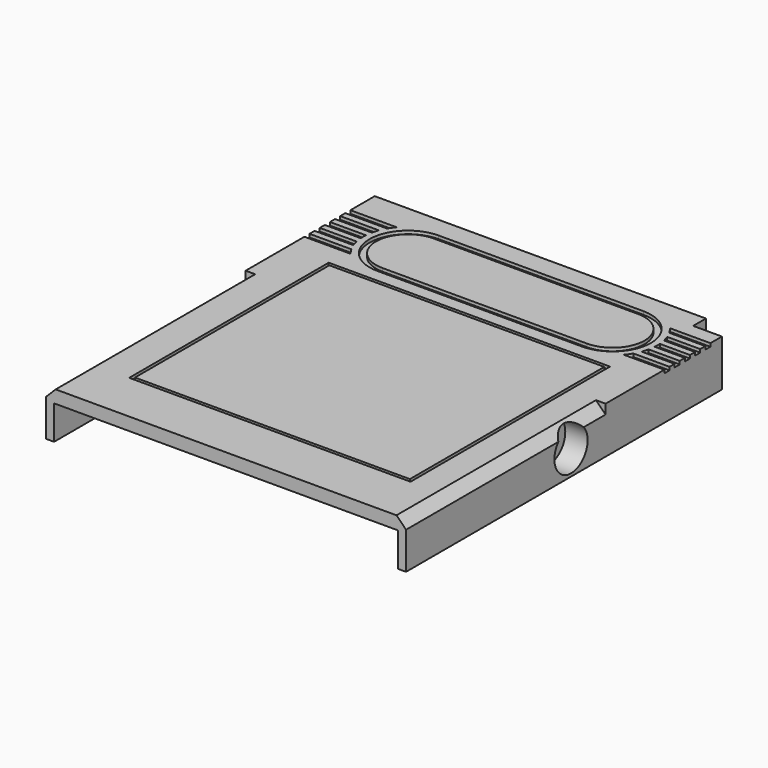
from build123d import *

# Parameters (mm, degrees)
CYLINDER_R        = 3.25
CYLINDER_DEPTH    = 3.5
BOX017_W          = 43
BOX017_H          = 38
BOX017_DEPTH      = 0.5
BOX057_W          = 4
BOX057_H          = 8
BOX057_DEPTH      = 5.3
BOX001_W          = 4.5
BOX001_H          = 2.5
BOX001_DEPTH      = 5.3
BOX003_W          = 5.5
BOX003_H          = 3.5
BOX003_DEPTH      = 5.3
BOX002_W          = 53.8
BOX002_H          = 62.8
BOX002_DEPTH      = 5.3
BOX_W             = 56.3
BOX_H             = 64.25
BOX_DEPTH         = 5.3
BOX056_W          = 13.5
BOX056_H          = 1
BOX056_DEPTH      = 5
BOX041_W          = 44
BOX041_H          = 39
BOX041_DEPTH      = 0.5
BOX008_W          = 56.3
BOX008_H          = 39
BOX008_DEPTH      = 2
CHAMFER_SIZE      = 1.5
CYLINDER011_R     = 5
CYLINDER011_DEPTH = 0.5
BOX055_W          = 32
BOX055_H          = 10
BOX055_DEPTH      = 0.5
CYLINDER010_R     = 5
CYLINDER010_DEPTH = 0.5
BOX044_W          = 32
BOX044_H          = 12
BOX044_DEPTH      = 1
CYLINDER007_R     = 6
CYLINDER007_DEPTH = 1
CYLINDER006_R     = 6
CYLINDER006_DEPTH = 1
CYLINDER008_R     = 7
CYLINDER008_DEPTH = 1
BOX047_W          = 10
BOX047_H          = 1
BOX047_DEPTH      = 1
BOX049_W          = 10
BOX049_H          = 1
BOX049_DEPTH      = 1
BOX048_W          = 10
BOX048_H          = 1
BOX048_DEPTH      = 1
BOX046_W          = 10
BOX046_H          = 1
BOX046_DEPTH      = 1
BOX045_W          = 10
BOX045_H          = 1
BOX045_DEPTH      = 1
CYLINDER009_R     = 7
CYLINDER009_DEPTH = 1
BOX051_W          = 10
BOX051_H          = 1
BOX051_DEPTH      = 1
BOX054_W          = 10
BOX054_H          = 1
BOX054_DEPTH      = 1
BOX053_W          = 10
BOX053_H          = 1
BOX053_DEPTH      = 1
BOX052_W          = 10
BOX052_H          = 1
BOX052_DEPTH      = 1
BOX050_W          = 10
BOX050_H          = 1
BOX050_DEPTH      = 1
BOX010_W          = 10
BOX010_H          = 10
BOX010_DEPTH      = 10
BOX007_W          = 56.3
BOX007_H          = 25.25
BOX007_DEPTH      = 2


with BuildPart() as cylinder_magnet:
    # Cylinder → Cylinder (new body)
    with BuildSketch(Plane(origin=(52.8, 32.25, 3.7), x_dir=(0, 0, -1), z_dir=(1, 0, 0))):
        Circle(CYLINDER_R)
    extrude(amount=CYLINDER_DEPTH)


with BuildPart() as obj1:
    # Box017 → Box017 (new body)
    with BuildSketch(Plane(origin=(7.1, 8.5, 6.8), x_dir=(1, 0, 0), z_dir=(0, 0, 1))):
        with Locations((21.5, 19)):
            Rectangle(BOX017_W, BOX017_H)
    extrude(amount=BOX017_DEPTH)


with BuildPart() as cube_magnet_black:
    # Box057 → Box057 (new body)
    with BuildSketch(Plane(origin=(51.3, 28.25, 0), x_dir=(1, 0, 0), z_dir=(0, 0, 1))):
        with Locations((2, 4)):
            Rectangle(BOX057_W, BOX057_H)
    extrude(amount=BOX057_DEPTH)


with BuildPart() as cube_corner_inner:
    # Box001 → Box001 (new body)
    with BuildSketch(Plane(origin=(51.8, 61.75, 0), x_dir=(1, 0, 0), z_dir=(0, 0, 1))):
        with Locations((2.25, 1.25)):
            Rectangle(BOX001_W, BOX001_H)
    extrude(amount=BOX001_DEPTH)


with BuildPart() as cube_corner_outer:
    # Box003 → Box003 (new body)
    with BuildSketch(Plane(origin=(50.8, 60.75, 0), x_dir=(1, 0, 0), z_dir=(0, 0, 1))):
        with Locations((2.75, 1.75)):
            Rectangle(BOX003_W, BOX003_H)
    extrude(amount=BOX003_DEPTH)


with BuildPart() as cube_inner_base:
    # Box002 → Box002 (new body)
    with BuildSketch(Plane(origin=(1.25, 0, 0), x_dir=(1, 0, 0), z_dir=(0, 0, 1))):
        with Locations((26.9, 31.4)):
            Rectangle(BOX002_W, BOX002_H)
    extrude(amount=BOX002_DEPTH)


with BuildPart() as cut024:
    # Box → Box (new body)
    with BuildSketch(Plane.XY):
        with Locations((28.15, 32.125)):
            Rectangle(BOX_W, BOX_H)
    extrude(amount=BOX_DEPTH)

    # Cut: cut Cube(inner_base)
    add(cube_inner_base.part, mode=Mode.SUBTRACT)

    # Fusion: union Cube(corner_outer)
    add(cube_corner_outer.part)

    # Cut024: cut Cube(corner_inner)
    add(cube_corner_inner.part, mode=Mode.SUBTRACT)


with BuildPart() as cube_sd_card_cover:
    # Box056 → Box056 (new body)
    with BuildSketch(Plane(origin=(27.1, 63.25, -5), x_dir=(1, 0, 0), z_dir=(0, 0, 1))):
        with Locations((6.75, 0.5)):
            Rectangle(BOX056_W, BOX056_H)
    extrude(amount=BOX056_DEPTH)


with BuildPart() as obj2:
    # Box041 → Box041 (new body)
    with BuildSketch(Plane(origin=(6.6, 8, 6.8), x_dir=(1, 0, 0), z_dir=(0, 0, 1))):
        with Locations((22, 19.5)):
            Rectangle(BOX041_W, BOX041_H)
    extrude(amount=BOX041_DEPTH)


with BuildPart() as chamfer_body:
    # Box008 → Box008 (new body)
    with BuildSketch(Plane.XY.offset(5.3)):
        with Locations((28.15, 19.5)):
            Rectangle(BOX008_W, BOX008_H)
    extrude(amount=BOX008_DEPTH)

    # Chamfer
    chamfer_edges = [chamfer_body.edges().sort_by_distance(p)[0] for p in [
        (0, 19.5, 7.3),
        (56.3, 19.5, 7.3),
    ]]
    chamfer(chamfer_edges, length=CHAMFER_SIZE)


with BuildPart() as cylinder002_right_nintendo_inner:
    # Cylinder011 → Cylinder011 (new body)
    with BuildSketch(Plane(origin=(44.6, 55, 6.8), x_dir=(1, 0, 0), z_dir=(0, 0, 1))):
        Circle(CYLINDER011_R)
    extrude(amount=CYLINDER011_DEPTH)


with BuildPart() as cube_middle_nintendo_inner:
    # Box055 → Box055 (new body)
    with BuildSketch(Plane(origin=(12.6, 50, 6.8), x_dir=(1, 0, 0), z_dir=(0, 0, 1))):
        with Locations((16, 5)):
            Rectangle(BOX055_W, BOX055_H)
    extrude(amount=BOX055_DEPTH)


with BuildPart() as fusion033:
    # Cylinder010 → Cylinder010 (new body)
    with BuildSketch(Plane(origin=(12.6, 55, 6.8), x_dir=(1, 0, 0), z_dir=(0, 0, 1))):
        Circle(CYLINDER010_R)
    extrude(amount=CYLINDER010_DEPTH)

    # Fusion033: union Cylinder002(right_nintendo_inner), Cube(middle_nintendo_inner)
    add(cylinder002_right_nintendo_inner.part)
    add(cube_middle_nintendo_inner.part)


with BuildPart() as cube_middle_nintendo_outer:
    # Box044 → Box044 (new body)
    with BuildSketch(Plane(origin=(12.6, 49, 6.8), x_dir=(1, 0, 0), z_dir=(0, 0, 1))):
        with Locations((16, 6)):
            Rectangle(BOX044_W, BOX044_H)
    extrude(amount=BOX044_DEPTH)


with BuildPart() as cylinder002_right_nintendo_outer:
    # Cylinder007 → Cylinder007 (new body)
    with BuildSketch(Plane(origin=(44.6, 55, 6.8), x_dir=(1, 0, 0), z_dir=(0, 0, 1))):
        Circle(CYLINDER007_R)
    extrude(amount=CYLINDER007_DEPTH)


with BuildPart() as cylinder001_left_nintendo_outer:
    # Cylinder006 → Cylinder006 (new body)
    with BuildSketch(Plane(origin=(12.6, 55, 6.8), x_dir=(1, 0, 0), z_dir=(0, 0, 1))):
        Circle(CYLINDER006_R)
    extrude(amount=CYLINDER006_DEPTH)


with BuildPart() as cylinder001_left_nintendo_fin_cut:
    # Cylinder008 → Cylinder008 (new body)
    with BuildSketch(Plane(origin=(12.6, 55, 6.8), x_dir=(1, 0, 0), z_dir=(0, 0, 1))):
        Circle(CYLINDER008_R)
    extrude(amount=CYLINDER008_DEPTH)


with BuildPart() as box047:
    # Box047 → Box047 (new body)
    with BuildSketch(Plane(origin=(0, 54.5, 6.8), x_dir=(1, 0, 0), z_dir=(0, 0, 1))):
        with Locations((5, 0.5)):
            Rectangle(BOX047_W, BOX047_H)
    extrude(amount=BOX047_DEPTH)


with BuildPart() as box049:
    # Box049 → Box049 (new body)
    with BuildSketch(Plane(origin=(0, 58.5, 6.8), x_dir=(1, 0, 0), z_dir=(0, 0, 1))):
        with Locations((5, 0.5)):
            Rectangle(BOX049_W, BOX049_H)
    extrude(amount=BOX049_DEPTH)


with BuildPart() as box048:
    # Box048 → Box048 (new body)
    with BuildSketch(Plane(origin=(0, 56.5, 6.8), x_dir=(1, 0, 0), z_dir=(0, 0, 1))):
        with Locations((5, 0.5)):
            Rectangle(BOX048_W, BOX048_H)
    extrude(amount=BOX048_DEPTH)


with BuildPart() as box046:
    # Box046 → Box046 (new body)
    with BuildSketch(Plane(origin=(0, 52.5, 6.8), x_dir=(1, 0, 0), z_dir=(0, 0, 1))):
        with Locations((5, 0.5)):
            Rectangle(BOX046_W, BOX046_H)
    extrude(amount=BOX046_DEPTH)


with BuildPart() as cut009:
    # Box045 → Box045 (new body)
    with BuildSketch(Plane(origin=(0, 50.5, 6.8), x_dir=(1, 0, 0), z_dir=(0, 0, 1))):
        with Locations((5, 0.5)):
            Rectangle(BOX045_W, BOX045_H)
    extrude(amount=BOX045_DEPTH)

    # Fusion004: union Box047, Box049, Box048, Box046
    add(box047.part)
    add(box049.part)
    add(box048.part)
    add(box046.part)

    # Cut009: cut Cylinder001(left_nintendo_fin_cut)
    add(cylinder001_left_nintendo_fin_cut.part, mode=Mode.SUBTRACT)


with BuildPart() as cylinder002_right_nintendo_fin_cut:
    # Cylinder009 → Cylinder009 (new body)
    with BuildSketch(Plane(origin=(44.6, 55, 6.8), x_dir=(1, 0, 0), z_dir=(0, 0, 1))):
        Circle(CYLINDER009_R)
    extrude(amount=CYLINDER009_DEPTH)


with BuildPart() as box051:
    # Box051 → Box051 (new body)
    with BuildSketch(Plane(origin=(46.3, 54.5, 6.8), x_dir=(1, 0, 0), z_dir=(0, 0, 1))):
        with Locations((5, 0.5)):
            Rectangle(BOX051_W, BOX051_H)
    extrude(amount=BOX051_DEPTH)


with BuildPart() as box054:
    # Box054 → Box054 (new body)
    with BuildSketch(Plane(origin=(46.3, 52.5, 6.8), x_dir=(1, 0, 0), z_dir=(0, 0, 1))):
        with Locations((5, 0.5)):
            Rectangle(BOX054_W, BOX054_H)
    extrude(amount=BOX054_DEPTH)


with BuildPart() as box053:
    # Box053 → Box053 (new body)
    with BuildSketch(Plane(origin=(46.3, 56.5, 6.8), x_dir=(1, 0, 0), z_dir=(0, 0, 1))):
        with Locations((5, 0.5)):
            Rectangle(BOX053_W, BOX053_H)
    extrude(amount=BOX053_DEPTH)


with BuildPart() as box052:
    # Box052 → Box052 (new body)
    with BuildSketch(Plane(origin=(46.3, 58.5, 6.8), x_dir=(1, 0, 0), z_dir=(0, 0, 1))):
        with Locations((5, 0.5)):
            Rectangle(BOX052_W, BOX052_H)
    extrude(amount=BOX052_DEPTH)


with BuildPart() as cut008:
    # Box050 → Box050 (new body)
    with BuildSketch(Plane(origin=(46.3, 50.5, 6.8), x_dir=(1, 0, 0), z_dir=(0, 0, 1))):
        with Locations((5, 0.5)):
            Rectangle(BOX050_W, BOX050_H)
    extrude(amount=BOX050_DEPTH)

    # Fusion003: union Box051, Box054, Box053, Box052
    add(box051.part)
    add(box054.part)
    add(box053.part)
    add(box052.part)

    # Cut008: cut Cylinder002(right_nintendo_fin_cut)
    add(cylinder002_right_nintendo_fin_cut.part, mode=Mode.SUBTRACT)


with BuildPart() as cube_top_corner_cut:
    # Box010 → Box010 (new body)
    with BuildSketch(Plane(origin=(51.8, 61.75, 0), x_dir=(1, 0, 0), z_dir=(0, 0, 1))):
        with Locations((5, 5)):
            Rectangle(BOX010_W, BOX010_H)
    extrude(amount=BOX010_DEPTH)


with BuildPart() as cut026:
    # Box007 → Box007 (new body)
    with BuildSketch(Plane(origin=(0, 39, 5.3), x_dir=(1, 0, 0), z_dir=(0, 0, 1))):
        with Locations((28.15, 12.625)):
            Rectangle(BOX007_W, BOX007_H)
    extrude(amount=BOX007_DEPTH)

    # Cut006: cut Cube(top_corner_cut)
    add(cube_top_corner_cut.part, mode=Mode.SUBTRACT)

    # Cut010: cut Cut008
    add(cut008.part, mode=Mode.SUBTRACT)

    # Cut011: cut Cut009
    add(cut009.part, mode=Mode.SUBTRACT)

    # Cut012: cut Cylinder001(left_nintendo_outer)
    add(cylinder001_left_nintendo_outer.part, mode=Mode.SUBTRACT)

    # Cut013: cut Cylinder002(right_nintendo_outer)
    add(cylinder002_right_nintendo_outer.part, mode=Mode.SUBTRACT)

    # Cut014: cut Cube(middle_nintendo_outer)
    add(cube_middle_nintendo_outer.part, mode=Mode.SUBTRACT)

    # Fusion034: union Chamfer body, Fusion033
    add(chamfer_body.part)
    add(fusion033.part)

    # Cut025: cut obj2)
    add(obj2.part, mode=Mode.SUBTRACT)

    # Fusion035: union obj1), Cube(magnet_black), Cut024, Cube(sd_card_cover)
    add(obj1.part)
    add(cube_magnet_black.part)
    add(cut024.part)
    add(cube_sd_card_cover.part)

    # Cut026: cut Cylinder(magnet)
    add(cylinder_magnet.part, mode=Mode.SUBTRACT)


solid = cut026.part
